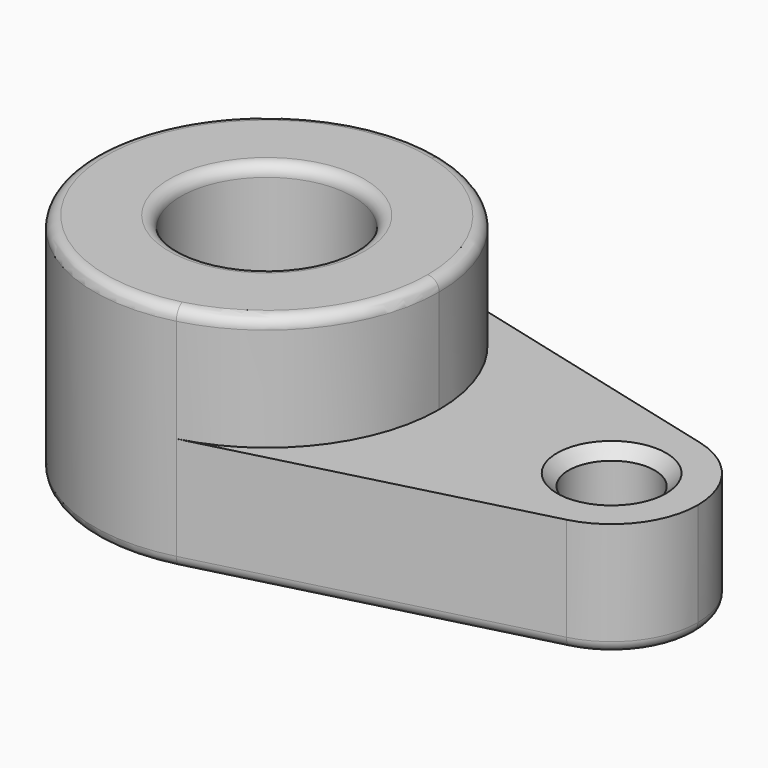
from build123d import *

# Parameters (mm, degrees)
F0_R     = 15
F0_R_2   = 7.5
F1_DEPTH = 20
F2_DEPTH = 20
F3_R     = 2
F4_SIZE  = 2


with BuildPart() as f1:
    # F0 (on Top) → F1 (new body)
    with BuildSketch(Plane.XY):
        with BuildLine():
            ThreePointArc((7.5, -29.047375), (23.717082, -18.371173), (30, 0))
            ThreePointArc((30, 0), (23.717082, 18.371173), (7.5, 29.047375))
            ThreePointArc((7.5, 29.047375), (-30, 0), (7.5, -29.047375))
        make_face()
        Circle(F0_R, mode=Mode.SUBTRACT)
        with BuildLine():
            ThreePointArc((7.5, 29.047375), (23.717082, 18.371173), (30, 0))
            ThreePointArc((30, 0), (23.717082, -18.371173), (7.5, -29.047375))
            Line((7.5, -29.047375), (63.75, -14.523688))
            ThreePointArc((63.75, -14.523688), (45, 0), (63.75, 14.523688))
            Line((63.75, 14.523688), (7.5, 29.047375))
        make_face()
        with BuildLine():
            ThreePointArc((75, 0), (71.858541, 9.185587), (63.75, 14.523688))
            ThreePointArc((63.75, 14.523688), (45, 0), (63.75, -14.523688))
            ThreePointArc((63.75, -14.523688), (71.858541, -9.185587), (75, 0))
        make_face()
        with Locations((60, 0)):
            Circle(F0_R_2, mode=Mode.SUBTRACT)
    extrude(amount=-F1_DEPTH)

    # F0 (on Top) → F2 (join)
    with BuildSketch(Plane.XY):
        with BuildLine():
            ThreePointArc((7.5, -29.047375), (23.717082, -18.371173), (30, 0))
            ThreePointArc((30, 0), (23.717082, 18.371173), (7.5, 29.047375))
            ThreePointArc((7.5, 29.047375), (-30, 0), (7.5, -29.047375))
        make_face()
        Circle(F0_R, mode=Mode.SUBTRACT)
    extrude(amount=F2_DEPTH)

    # F3
    f3_edges = [f1.edges().sort_by_distance(p)[0] for p in [
        (-7.5, 29.047375, 20),
        (-15, 0, 20),
        (-30, 0, -20),
        (35.625, -21.785531, -20),
        (75, 0, -20),
        (35.625, 21.785531, -20),
        (-15, 0, -20),
        (52.5, 0, -20),
    ]]
    fillet(f3_edges, radius=F3_R)

    # F4
    f4_edges = [f1.edges().sort_by_distance(p)[0] for p in [
        (67.5, 0, -9),
        (52.5, 0, -18),
        (52.5, 0, 0),
    ]]
    chamfer(f4_edges, length=F4_SIZE)


solid = f1.part
